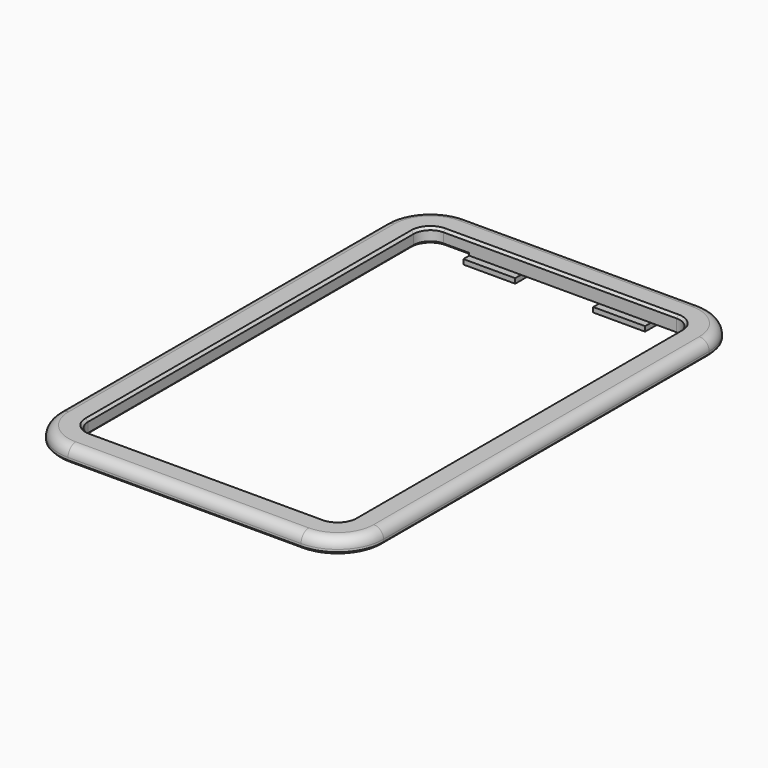
from build123d import *

# Parameters (mm, degrees)
F1_DEPTH = 3
F2_R     = 2
F3_W     = 10.639583
F3_H     = 3
F4_DEPTH = 1
F5_SIZE  = 0.5


with BuildPart() as f1:
    # F0 (on Top) → F1 (new body)
    with BuildSketch(Plane.XY):
        with BuildLine():
            Line((-33.3, 41.75), (-33.3, -41.75))
            ThreePointArc((-33.3, -41.75), (-30.546804, -48.396804), (-23.9, -51.15))
            Line((-23.9, -51.15), (23.9, -51.15))
            ThreePointArc((23.9, -51.15), (30.546804, -48.396804), (33.3, -41.75))
            Line((33.3, -41.75), (33.3, 41.75))
            ThreePointArc((33.3, 41.75), (30.546804, 48.396804), (23.9, 51.15))
            Line((23.9, 51.15), (-23.9, 51.15))
            ThreePointArc((-23.9, 51.15), (-30.546804, 48.396804), (-33.3, 41.75))
        make_face()
        with BuildLine():
            ThreePointArc((27.3, -41.75), (26.304163, -44.154163), (23.9, -45.15))
            Line((23.9, -45.15), (-23.9, -45.15))
            ThreePointArc((-23.9, -45.15), (-26.304163, -44.154163), (-27.3, -41.75))
            Line((-27.3, -41.75), (-27.3, 41.75))
            ThreePointArc((-27.3, 41.75), (-26.304163, 44.154163), (-23.9, 45.15))
            Line((-23.9, 45.15), (23.9, 45.15))
            ThreePointArc((23.9, 45.15), (26.304163, 44.154163), (27.3, 41.75))
            Line((27.3, 41.75), (27.3, -41.75))
        make_face(mode=Mode.SUBTRACT)
    extrude(amount=F1_DEPTH)

    # F2
    f2_edges = [f1.edges().sort_by_distance(p)[0] for p in [
        (-33.3, 0, 3),
    ]]
    fillet(f2_edges, radius=F2_R)

    # F3 (on face) → F4 (join)
    with BuildSketch(Plane(origin=(0, 0, 0), x_dir=(1, 0, 0), z_dir=(0, 0, -1))):
        with Locations((-13.319791, -45.15)):
            Rectangle(F3_W, F3_H)
        with Locations((13.319791, -45.15)):
            Rectangle(F3_W, F3_H)
        with Locations((-13.319791, 45.15)):
            Rectangle(F3_W, F3_H)
        with Locations((13.319791, 45.15)):
            Rectangle(F3_W, F3_H)
    extrude(amount=F4_DEPTH)

    # F5
    f5_edges = [f1.edges().sort_by_distance(p)[0] for p in [
        (0, 45.15, 3),
        (-27.3, 0, 0),
        (-33.3, 0, 0),
    ]]
    chamfer(f5_edges, length=F5_SIZE)


solid = f1.part
